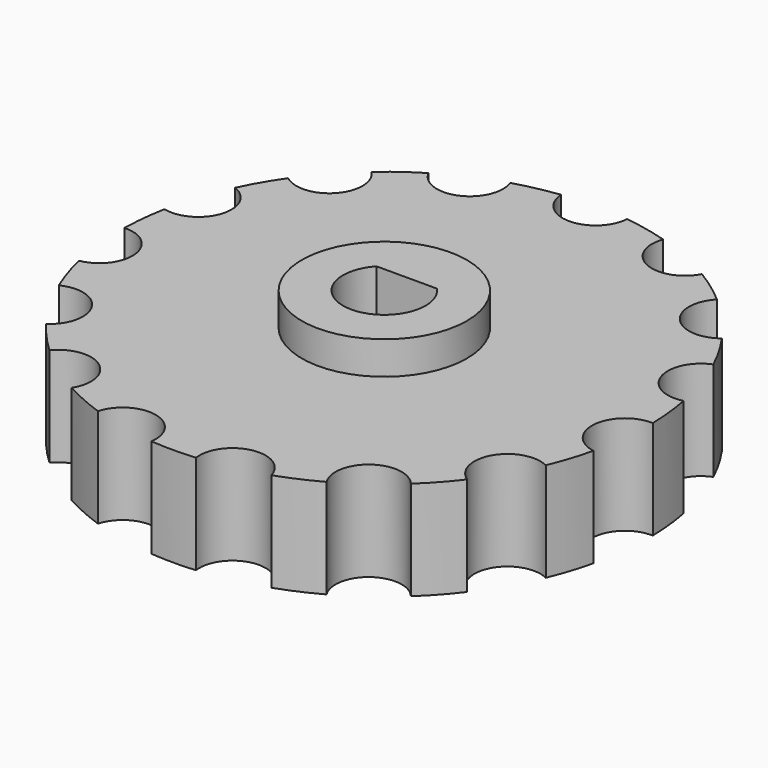
from build123d import *

# Parameters (mm, degrees)
F0_R     = 12.5
F1_DEPTH = 15
F2_DEPTH = 20
F3_R     = 10
F3_R_2   = 3.5
F4_DEPTH = 5
F5_DEPTH = 15
F6_DEPTH = 20


with BuildPart() as f1:
    # F0 (on Top) → F1 (new body)
    with BuildSketch(Plane.XY):
        with BuildLine():
            ThreePointArc((38.948467, -9.111361), (34.808266, -3.658496), (39.991708, 0.814414))
            ThreePointArc((39.991708, 0.814414), (39.780876, 4.181139), (39.28712, 7.518126))
            ThreePointArc((39.28712, 7.518126), (33.286978, 10.815595), (36.202991, 17.010098))
            ThreePointArc((36.202991, 17.010098), (34.641016, 20), (32.832672, 22.847661))
            ThreePointArc((32.832672, 22.847661), (26.010069, 23.419571), (26.154448, 30.264581))
            ThreePointArc((26.154448, 30.264581), (23.51141, 32.36068), (20.701158, 34.226628))
            ThreePointArc((20.701158, 34.226628), (14.235783, 31.974091), (11.583563, 38.286043))
            ThreePointArc((11.583563, 38.286043), (8.316468, 39.125904), (4.990225, 39.6875))
            ThreePointArc((4.990225, 39.6875), (0, 35), (-4.990225, 39.6875))
            ThreePointArc((-4.990225, 39.6875), (-8.316468, 39.125904), (-11.583563, 38.286043))
            ThreePointArc((-11.583563, 38.286043), (-11.348617, 37.427958), (-11.269466, 36.541818))
            ThreePointArc((-11.269466, 36.541818), (-15.077505, 31.685973), (-20.701158, 34.226628))
            ThreePointArc((-20.701158, 34.226628), (-23.51141, 32.36068), (-26.154448, 30.264581))
            ThreePointArc((-26.154448, 30.264581), (-25.096715, 28.655102), (-24.725793, 26.765224))
            ThreePointArc((-24.725793, 26.765224), (-27.550293, 22.263314), (-32.832672, 22.847661))
            ThreePointArc((-32.832672, 22.847661), (-34.641016, 20), (-36.202991, 17.010098))
            ThreePointArc((-36.202991, 17.010098), (-33.907267, 15.171699), (-33.042261, 12.36068))
            ThreePointArc((-33.042261, 12.36068), (-34.9783, 8.409459), (-39.28712, 7.518126))
            ThreePointArc((-39.28712, 7.518126), (-39.780876, 4.181139), (-39.991708, 0.814414))
            ThreePointArc((-39.991708, 0.814414), (-36.320685, -0.571834), (-34.780876, -4.181139))
            ThreePointArc((-34.780876, -4.181139), (-35.962365, -7.408983), (-38.948467, -9.111361))
            ThreePointArc((-38.948467, -9.111361), (-38.042261, -12.36068), (-36.865496, -15.522089))
            ThreePointArc((-36.865496, -15.522089), (-32.006856, -15.750153), (-29.641016, -20))
            ThreePointArc((-29.641016, -20), (-30.234843, -22.363395), (-31.875271, -24.165411))
            ThreePointArc((-31.875271, -24.165411), (-29.725793, -26.765224), (-27.364904, -29.174681))
            ThreePointArc((-27.364904, -29.174681), (-21.818405, -27.656029), (-18.51141, -32.36068))
            ThreePointArc((-18.51141, -32.36068), (-18.710145, -33.756334), (-19.290551, -35.041043))
            ThreePointArc((-19.290551, -35.041043), (-16.269466, -36.541818), (-13.132672, -37.782707))
            ThreePointArc((-13.132672, -37.782707), (-7.638611, -34.172066), (-3.316468, -39.125904))
            ThreePointArc((-3.316468, -39.125904), (-3.329949, -39.492821), (-3.370319, -39.857759))
            ThreePointArc((-3.370319, -39.857759), (0, -40), (3.370319, -39.857759))
            ThreePointArc((3.370319, -39.857759), (7.276909, -34.235166), (13.132672, -37.782707))
            ThreePointArc((13.132672, -37.782707), (16.269466, -36.541818), (19.290551, -35.041043))
            ThreePointArc((19.290551, -35.041043), (20.572484, -28.315595), (27.364904, -29.174681))
            ThreePointArc((27.364904, -29.174681), (29.725793, -26.765224), (31.875271, -24.165411))
            ThreePointArc((31.875271, -24.165411), (30.310889, -17.5), (36.865496, -15.522089))
            ThreePointArc((36.865496, -15.522089), (38.042261, -12.36068), (38.948467, -9.111361))
        make_face()
        Circle(F0_R, mode=Mode.SUBTRACT)
    extrude(amount=F1_DEPTH)

    # F0 (on Top) → F2 (join)
    with BuildSketch(Plane.XY):
        Circle(F0_R)
        with BuildLine():
            ThreePointArc((4.582576, 4.25), (0, -6.25), (-4.582576, 4.25))
            Line((-4.582576, 4.25), (4.582576, 4.25))
        make_face(mode=Mode.SUBTRACT)
    extrude(amount=F2_DEPTH)

    # F3 (on Top) → F4 (join)
    with BuildSketch(Plane.XY):
        Circle(F3_R)
        Circle(F3_R_2, mode=Mode.SUBTRACT)
    extrude(amount=F4_DEPTH)



with BuildPart() as f5:
    # F0 (on Top) → F5 (new body)
    with BuildSketch(Plane.XY):
        with BuildLine():
            ThreePointArc((38.948467, -9.111361), (34.808266, -3.658496), (39.991708, 0.814414))
            ThreePointArc((39.991708, 0.814414), (39.780876, 4.181139), (39.28712, 7.518126))
            ThreePointArc((39.28712, 7.518126), (33.286978, 10.815595), (36.202991, 17.010098))
            ThreePointArc((36.202991, 17.010098), (34.641016, 20), (32.832672, 22.847661))
            ThreePointArc((32.832672, 22.847661), (26.010069, 23.419571), (26.154448, 30.264581))
            ThreePointArc((26.154448, 30.264581), (23.51141, 32.36068), (20.701158, 34.226628))
            ThreePointArc((20.701158, 34.226628), (14.235783, 31.974091), (11.583563, 38.286043))
            ThreePointArc((11.583563, 38.286043), (8.316468, 39.125904), (4.990225, 39.6875))
            ThreePointArc((4.990225, 39.6875), (0, 35), (-4.990225, 39.6875))
            ThreePointArc((-4.990225, 39.6875), (-8.316468, 39.125904), (-11.583563, 38.286043))
            ThreePointArc((-11.583563, 38.286043), (-11.348617, 37.427958), (-11.269466, 36.541818))
            ThreePointArc((-11.269466, 36.541818), (-15.077505, 31.685973), (-20.701158, 34.226628))
            ThreePointArc((-20.701158, 34.226628), (-23.51141, 32.36068), (-26.154448, 30.264581))
            ThreePointArc((-26.154448, 30.264581), (-25.096715, 28.655102), (-24.725793, 26.765224))
            ThreePointArc((-24.725793, 26.765224), (-27.550293, 22.263314), (-32.832672, 22.847661))
            ThreePointArc((-32.832672, 22.847661), (-34.641016, 20), (-36.202991, 17.010098))
            ThreePointArc((-36.202991, 17.010098), (-33.907267, 15.171699), (-33.042261, 12.36068))
            ThreePointArc((-33.042261, 12.36068), (-34.9783, 8.409459), (-39.28712, 7.518126))
            ThreePointArc((-39.28712, 7.518126), (-39.780876, 4.181139), (-39.991708, 0.814414))
            ThreePointArc((-39.991708, 0.814414), (-36.320685, -0.571834), (-34.780876, -4.181139))
            ThreePointArc((-34.780876, -4.181139), (-35.962365, -7.408983), (-38.948467, -9.111361))
            ThreePointArc((-38.948467, -9.111361), (-38.042261, -12.36068), (-36.865496, -15.522089))
            ThreePointArc((-36.865496, -15.522089), (-32.006856, -15.750153), (-29.641016, -20))
            ThreePointArc((-29.641016, -20), (-30.234843, -22.363395), (-31.875271, -24.165411))
            ThreePointArc((-31.875271, -24.165411), (-29.725793, -26.765224), (-27.364904, -29.174681))
            ThreePointArc((-27.364904, -29.174681), (-21.818405, -27.656029), (-18.51141, -32.36068))
            ThreePointArc((-18.51141, -32.36068), (-18.710145, -33.756334), (-19.290551, -35.041043))
            ThreePointArc((-19.290551, -35.041043), (-16.269466, -36.541818), (-13.132672, -37.782707))
            ThreePointArc((-13.132672, -37.782707), (-7.638611, -34.172066), (-3.316468, -39.125904))
            ThreePointArc((-3.316468, -39.125904), (-3.329949, -39.492821), (-3.370319, -39.857759))
            ThreePointArc((-3.370319, -39.857759), (0, -40), (3.370319, -39.857759))
            ThreePointArc((3.370319, -39.857759), (7.276909, -34.235166), (13.132672, -37.782707))
            ThreePointArc((13.132672, -37.782707), (16.269466, -36.541818), (19.290551, -35.041043))
            ThreePointArc((19.290551, -35.041043), (20.572484, -28.315595), (27.364904, -29.174681))
            ThreePointArc((27.364904, -29.174681), (29.725793, -26.765224), (31.875271, -24.165411))
            ThreePointArc((31.875271, -24.165411), (30.310889, -17.5), (36.865496, -15.522089))
            ThreePointArc((36.865496, -15.522089), (38.042261, -12.36068), (38.948467, -9.111361))
        make_face()
        Circle(F0_R, mode=Mode.SUBTRACT)
    extrude(amount=F5_DEPTH)


with BuildPart() as f1_1:
    add(f1.part)

    add(f5.part)  # F6 merges F5
    # F0 (on Top) → F6 (join)
    with BuildSketch(Plane.XY):
        Circle(F0_R)
        with BuildLine():
            ThreePointArc((4.582576, 4.25), (0, -6.25), (-4.582576, 4.25))
            Line((-4.582576, 4.25), (4.582576, 4.25))
        make_face(mode=Mode.SUBTRACT)
    extrude(amount=F6_DEPTH)


solid = f1_1.part
